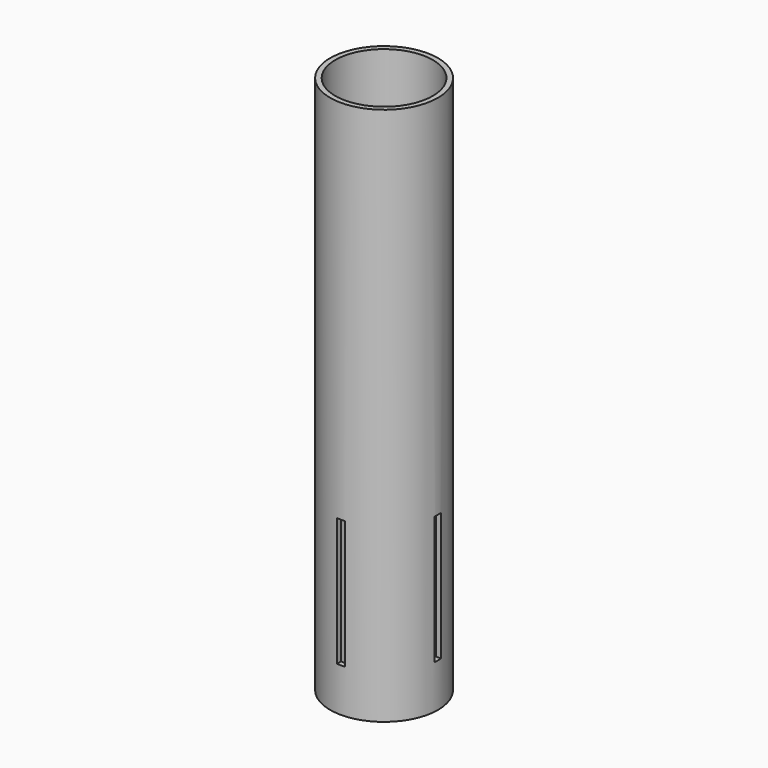
from build123d import *

# Parameters (mm, degrees)
F0_R     = 21
F0_R_2   = 19
F1_DEPTH = 210
F3_DEPTH = 500
F5_DEPTH = 500


with BuildPart() as f1:
    # F0 (on Top) → F1 (new body)
    with BuildSketch(Plane.XY):
        Circle(F0_R)
        Circle(F0_R_2, mode=Mode.SUBTRACT)
    extrude(amount=F1_DEPTH)

    # F2 (on Front) → F3 (cut, symmetric)
    with BuildSketch(Plane.XZ):
        Polygon((-1.5875, 67), (-1.5875, 17), (0, 17), (1.5875, 17), (1.5875, 67), align=None)
    extrude(amount=F3_DEPTH, both=True, mode=Mode.SUBTRACT)

    # F4 (on Right) → F5 (cut, symmetric)
    with BuildSketch(Plane.YZ):
        Polygon((0, 17), (1.5875, 17), (1.5875, 67), (-1.5875, 67), (-1.5875, 17), align=None)
    extrude(amount=F5_DEPTH, both=True, mode=Mode.SUBTRACT)


solid = f1.part
